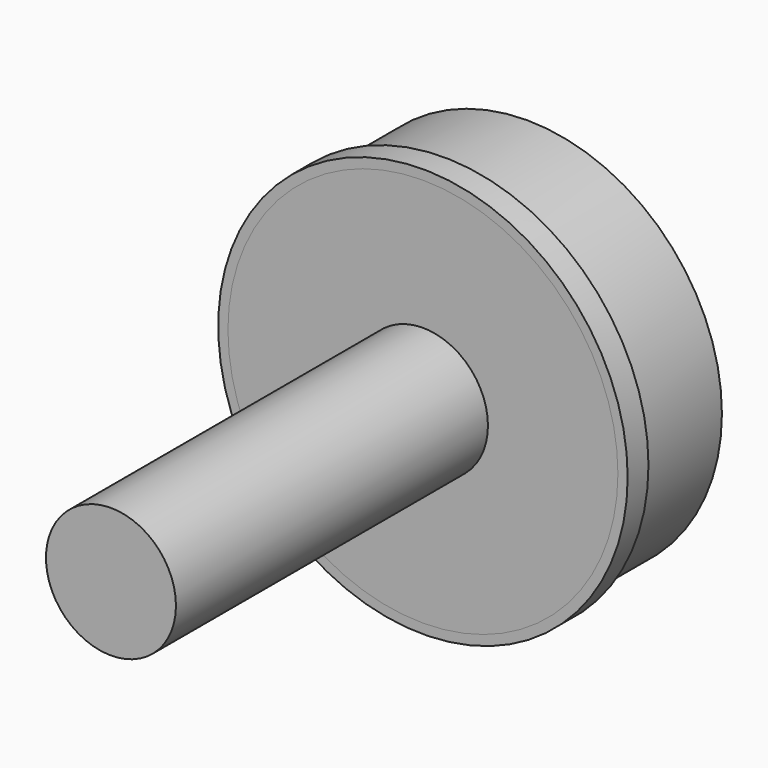
from build123d import *

# Parameters (mm, degrees)
F0_R     = 15
F0_R_2   = 5
F1_DEPTH = 10
F2_DEPTH = 40
F4_R     = 15.75
F4_R_2   = 15
F5_DEPTH = 2


with BuildPart() as f1:
    # F0 (on Front) → F1 (new body)
    with BuildSketch(Plane.XZ):
        with Locations((-39.214723, 34.085821)):
            Circle(F0_R)
        with Locations((-39.214723, 34.085821)):
            Circle(F0_R_2, mode=Mode.SUBTRACT)
    extrude(amount=F1_DEPTH)

    # F0 (on Front) → F2 (join)
    with BuildSketch(Plane.XZ):
        with Locations((-39.214723, 34.085821)):
            Circle(F0_R_2)
    extrude(amount=F2_DEPTH)


with BuildPart() as f5:
    # F4 (on face) → F5 (new body)
    with BuildSketch(Plane.XZ.offset(10)):
        with Locations((-39.214723, 34.085821)):
            Circle(F4_R)
        with Locations((-39.214723, 34.085821)):
            Circle(F4_R_2, mode=Mode.SUBTRACT)
    extrude(amount=-F5_DEPTH)


solid = Compound([f1.part, f5.part])
